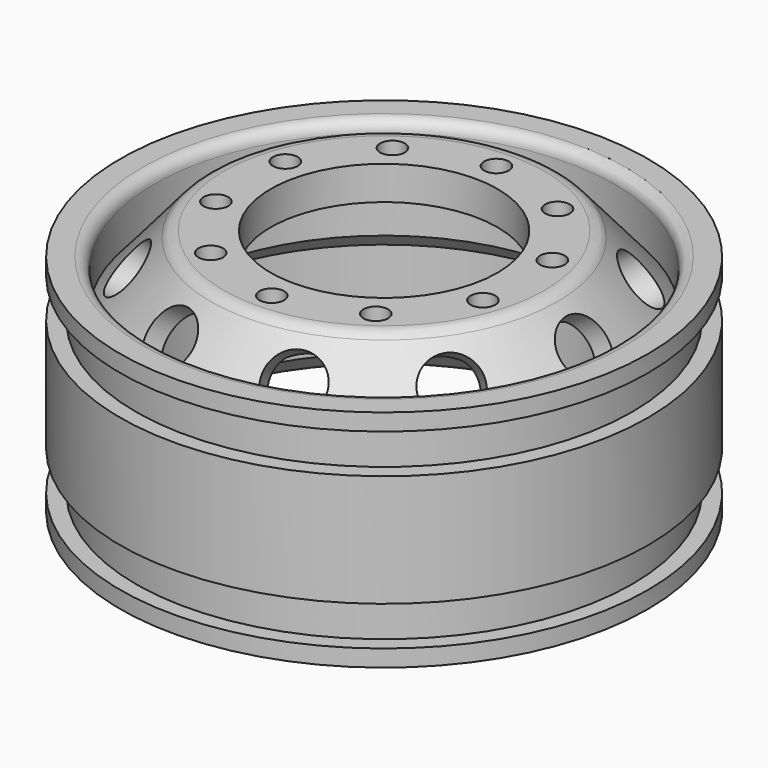
from build123d import *

# Parameters (mm, degrees)
CYLINDER072_R             = 10.1
CYLINDER072_DEPTH         = 26
CYLINDER022_R             = 1.1
CYLINDER022_DEPTH         = 10
CYLINDER021_R             = 1.1
CYLINDER021_DEPTH         = 10
FUSION008_PLACEMENT_ANGLE = 54
CYLINDER028_R             = 1.1
CYLINDER028_DEPTH         = 10
CYLINDER027_R             = 1.1
CYLINDER027_DEPTH         = 10
FUSION011_PLACEMENT_ANGLE = 162
CYLINDER026_R             = 1.1
CYLINDER026_DEPTH         = 10
CYLINDER025_R             = 1.1
CYLINDER025_DEPTH         = 10
FUSION010_PLACEMENT_ANGLE = 126
CYLINDER024_R             = 1.1
CYLINDER024_DEPTH         = 10
CYLINDER023_R             = 1.1
CYLINDER023_DEPTH         = 10
FUSION009_PLACEMENT_ANGLE = 90
CYLINDER020_R             = 1.1
CYLINDER020_DEPTH         = 10
CYLINDER019_R             = 1.1
CYLINDER019_DEPTH         = 10
FUSION007_PLACEMENT_ANGLE = 18
CYLINDER012_R             = 2.5
CYLINDER012_DEPTH         = 8
CYLINDER012_PITCH_ANGLE   = 58
CYLINDER011_R             = 2.5
CYLINDER011_DEPTH         = 8
CYLINDER011_PITCH_ANGLE   = 58
FUSION002_PLACEMENT_ANGLE = 36
CYLINDER014_R             = 2.5
CYLINDER014_DEPTH         = 8
CYLINDER014_PITCH_ANGLE   = 58
CYLINDER013_R             = 2.5
CYLINDER013_DEPTH         = 8
CYLINDER013_PITCH_ANGLE   = 58
FUSION003_PLACEMENT_ANGLE = 72
CYLINDER016_R             = 2.5
CYLINDER016_DEPTH         = 8
CYLINDER016_PITCH_ANGLE   = 58
CYLINDER015_R             = 2.5
CYLINDER015_DEPTH         = 8
CYLINDER015_PITCH_ANGLE   = 58
FUSION004_PLACEMENT_ANGLE = 108
CYLINDER018_R             = 2.5
CYLINDER018_DEPTH         = 8
CYLINDER018_PITCH_ANGLE   = 58
CYLINDER017_R             = 2.5
CYLINDER017_DEPTH         = 8
CYLINDER017_PITCH_ANGLE   = 58
FUSION005_PLACEMENT_ANGLE = 144
CYLINDER009_R             = 2.5
CYLINDER009_DEPTH         = 8
CYLINDER009_PITCH_ANGLE   = 58
CYLINDER010_R             = 2.5
CYLINDER010_DEPTH         = 8
CYLINDER010_PITCH_ANGLE   = 58
CYLINDER007_R             = 20
CYLINDER007_DEPTH         = 12
CYLINDER008_R             = 10
CYLINDER008_DEPTH         = 26
CYLINDER006_R             = 20.5
CYLINDER006_DEPTH         = 10
CYLINDER005_R             = 18.5
CYLINDER005_DEPTH         = 20
CYLINDER002_R             = 22.1
CYLINDER002_DEPTH         = 17
CYLINDER001_R             = 23.5
CYLINDER001_DEPTH         = 17
CYLINDER_R                = 23.5
CYLINDER_DEPTH            = 20
CYLINDER003_R             = 22
CYLINDER003_DEPTH         = 17
CYLINDER004_R             = 23.5
CYLINDER004_DEPTH         = 10
FILLET_R                  = 1
CHAMFER_SIZE              = 1.49
CHAMFER001_SIZE           = 2
FILLET001_R               = 1.5
FILLET002_R               = 1.5


with BuildPart() as cylinder072:
    # Cylinder072 → Cylinder072 (new body)
    with BuildSketch(Plane.XY):
        Circle(CYLINDER072_R)
    extrude(amount=CYLINDER072_DEPTH)


with BuildPart() as cylinder022:
    # Cylinder022 → Cylinder022 (new body)
    with BuildSketch(Plane(origin=(-12.5, 0, 13), x_dir=(1, 0, 0), z_dir=(0, 0, 1))):
        Circle(CYLINDER022_R)
    extrude(amount=CYLINDER022_DEPTH)


with BuildPart() as fusion008:
    # Cylinder021 → Cylinder021 (new body)
    with BuildSketch(Plane(origin=(12.5, 0, 13), x_dir=(1, 0, 0), z_dir=(0, 0, 1))):
        Circle(CYLINDER021_R)
    extrude(amount=CYLINDER021_DEPTH)

    # Fusion008: union Cylinder022
    add(cylinder022.part)


with BuildPart() as fusion008_1:
    # Fusion008 placement: moved
    add(fusion008.part.rotate(Axis((0, 0, 0), (0, 0, 1)), FUSION008_PLACEMENT_ANGLE))


with BuildPart() as cylinder028:
    # Cylinder028 → Cylinder028 (new body)
    with BuildSketch(Plane(origin=(-12.5, 0, 13), x_dir=(1, 0, 0), z_dir=(0, 0, 1))):
        Circle(CYLINDER028_R)
    extrude(amount=CYLINDER028_DEPTH)


with BuildPart() as fusion011:
    # Cylinder027 → Cylinder027 (new body)
    with BuildSketch(Plane(origin=(12.5, 0, 13), x_dir=(1, 0, 0), z_dir=(0, 0, 1))):
        Circle(CYLINDER027_R)
    extrude(amount=CYLINDER027_DEPTH)

    # Fusion011: union Cylinder028
    add(cylinder028.part)


with BuildPart() as fusion011_1:
    # Fusion011 placement: moved
    add(fusion011.part.rotate(Axis((0, 0, 0), (0, 0, 1)), FUSION011_PLACEMENT_ANGLE))


with BuildPart() as cylinder026:
    # Cylinder026 → Cylinder026 (new body)
    with BuildSketch(Plane(origin=(-12.5, 0, 13), x_dir=(1, 0, 0), z_dir=(0, 0, 1))):
        Circle(CYLINDER026_R)
    extrude(amount=CYLINDER026_DEPTH)


with BuildPart() as fusion010:
    # Cylinder025 → Cylinder025 (new body)
    with BuildSketch(Plane(origin=(12.5, 0, 13), x_dir=(1, 0, 0), z_dir=(0, 0, 1))):
        Circle(CYLINDER025_R)
    extrude(amount=CYLINDER025_DEPTH)

    # Fusion010: union Cylinder026
    add(cylinder026.part)


with BuildPart() as fusion010_1:
    # Fusion010 placement: moved
    add(fusion010.part.rotate(Axis((0, 0, 0), (0, 0, 1)), FUSION010_PLACEMENT_ANGLE))


with BuildPart() as cylinder024:
    # Cylinder024 → Cylinder024 (new body)
    with BuildSketch(Plane(origin=(-12.5, 0, 13), x_dir=(1, 0, 0), z_dir=(0, 0, 1))):
        Circle(CYLINDER024_R)
    extrude(amount=CYLINDER024_DEPTH)


with BuildPart() as fusion009:
    # Cylinder023 → Cylinder023 (new body)
    with BuildSketch(Plane(origin=(12.5, 0, 13), x_dir=(1, 0, 0), z_dir=(0, 0, 1))):
        Circle(CYLINDER023_R)
    extrude(amount=CYLINDER023_DEPTH)

    # Fusion009: union Cylinder024
    add(cylinder024.part)


with BuildPart() as fusion009_1:
    # Fusion009 placement: moved
    add(fusion009.part.rotate(Axis((0, 0, 0), (0, 0, 1)), FUSION009_PLACEMENT_ANGLE))


with BuildPart() as cylinder020:
    # Cylinder020 → Cylinder020 (new body)
    with BuildSketch(Plane(origin=(-12.5, 0, 13), x_dir=(1, 0, 0), z_dir=(0, 0, 1))):
        Circle(CYLINDER020_R)
    extrude(amount=CYLINDER020_DEPTH)


with BuildPart() as fusion012:
    # Cylinder019 → Cylinder019 (new body)
    with BuildSketch(Plane(origin=(12.5, 0, 13), x_dir=(1, 0, 0), z_dir=(0, 0, 1))):
        Circle(CYLINDER019_R)
    extrude(amount=CYLINDER019_DEPTH)

    # Fusion007: union Cylinder020
    add(cylinder020.part)


with BuildPart() as fusion012_1:
    # Fusion007 placement: moved
    add(fusion012.part.rotate(Axis((0, 0, 0), (0, 0, 1)), FUSION007_PLACEMENT_ANGLE))

    # Fusion012: union Fusion008, Fusion011, Fusion010, Fusion009
    add(fusion008_1.part)
    add(fusion011_1.part)
    add(fusion010_1.part)
    add(fusion009_1.part)


with BuildPart() as cylinder012:
    # Cylinder012 → Cylinder012 (new body)
    with BuildSketch(Plane.XY):
        Circle(CYLINDER012_R)
    extrude(amount=CYLINDER012_DEPTH)


with BuildPart() as cylinder012_1:
    # Cylinder012 pitch: moved
    add(cylinder012.part.rotate(Axis((0, 0, 0), (0, 1, 0)), CYLINDER012_PITCH_ANGLE))


with BuildPart() as cylinder012_2:
    # Cylinder012 placement: moved
    add(cylinder012_1.part.moved(Location((12, 0, 16))))


with BuildPart() as part_mirroring001:
    # Part__Mirroring001: instance of Cylinder012
    add(cylinder012_2.part.mirror(Plane(origin=(0, 0, 0), x_dir=(0, -1, 0), z_dir=(1, 0, 0))))


with BuildPart() as fusion002:
    # Cylinder011 → Cylinder011 (new body)
    with BuildSketch(Plane.XY):
        Circle(CYLINDER011_R)
    extrude(amount=CYLINDER011_DEPTH)


with BuildPart() as fusion002_1:
    # Cylinder011 pitch: moved
    add(fusion002.part.rotate(Axis((0, 0, 0), (0, 1, 0)), CYLINDER011_PITCH_ANGLE))


with BuildPart() as fusion002_2:
    # Cylinder011 placement: moved
    add(fusion002_1.part.moved(Location((12, 0, 16))))

    # Fusion002: union Part__Mirroring001
    add(part_mirroring001.part)


with BuildPart() as fusion002_3:
    # Fusion002 placement: moved
    add(fusion002_2.part.rotate(Axis((0, 0, 0), (0, 0, 1)), FUSION002_PLACEMENT_ANGLE))


with BuildPart() as cylinder014:
    # Cylinder014 → Cylinder014 (new body)
    with BuildSketch(Plane.XY):
        Circle(CYLINDER014_R)
    extrude(amount=CYLINDER014_DEPTH)


with BuildPart() as cylinder014_1:
    # Cylinder014 pitch: moved
    add(cylinder014.part.rotate(Axis((0, 0, 0), (0, 1, 0)), CYLINDER014_PITCH_ANGLE))


with BuildPart() as cylinder014_2:
    # Cylinder014 placement: moved
    add(cylinder014_1.part.moved(Location((12, 0, 16))))


with BuildPart() as part_mirroring002:
    # Part__Mirroring002: instance of Cylinder014
    add(cylinder014_2.part.mirror(Plane(origin=(0, 0, 0), x_dir=(0, -1, 0), z_dir=(1, 0, 0))))


with BuildPart() as fusion003:
    # Cylinder013 → Cylinder013 (new body)
    with BuildSketch(Plane.XY):
        Circle(CYLINDER013_R)
    extrude(amount=CYLINDER013_DEPTH)


with BuildPart() as fusion003_1:
    # Cylinder013 pitch: moved
    add(fusion003.part.rotate(Axis((0, 0, 0), (0, 1, 0)), CYLINDER013_PITCH_ANGLE))


with BuildPart() as fusion003_2:
    # Cylinder013 placement: moved
    add(fusion003_1.part.moved(Location((12, 0, 16))))

    # Fusion003: union Part__Mirroring002
    add(part_mirroring002.part)


with BuildPart() as fusion003_3:
    # Fusion003 placement: moved
    add(fusion003_2.part.rotate(Axis((0, 0, 0), (0, 0, 1)), FUSION003_PLACEMENT_ANGLE))


with BuildPart() as cylinder016:
    # Cylinder016 → Cylinder016 (new body)
    with BuildSketch(Plane.XY):
        Circle(CYLINDER016_R)
    extrude(amount=CYLINDER016_DEPTH)


with BuildPart() as cylinder016_1:
    # Cylinder016 pitch: moved
    add(cylinder016.part.rotate(Axis((0, 0, 0), (0, 1, 0)), CYLINDER016_PITCH_ANGLE))


with BuildPart() as cylinder016_2:
    # Cylinder016 placement: moved
    add(cylinder016_1.part.moved(Location((12, 0, 16))))


with BuildPart() as part_mirroring003:
    # Part__Mirroring003: instance of Cylinder016
    add(cylinder016_2.part.mirror(Plane(origin=(0, 0, 0), x_dir=(0, -1, 0), z_dir=(1, 0, 0))))


with BuildPart() as fusion004:
    # Cylinder015 → Cylinder015 (new body)
    with BuildSketch(Plane.XY):
        Circle(CYLINDER015_R)
    extrude(amount=CYLINDER015_DEPTH)


with BuildPart() as fusion004_1:
    # Cylinder015 pitch: moved
    add(fusion004.part.rotate(Axis((0, 0, 0), (0, 1, 0)), CYLINDER015_PITCH_ANGLE))


with BuildPart() as fusion004_2:
    # Cylinder015 placement: moved
    add(fusion004_1.part.moved(Location((12, 0, 16))))

    # Fusion004: union Part__Mirroring003
    add(part_mirroring003.part)


with BuildPart() as fusion004_3:
    # Fusion004 placement: moved
    add(fusion004_2.part.rotate(Axis((0, 0, 0), (0, 0, 1)), FUSION004_PLACEMENT_ANGLE))


with BuildPart() as cylinder018:
    # Cylinder018 → Cylinder018 (new body)
    with BuildSketch(Plane.XY):
        Circle(CYLINDER018_R)
    extrude(amount=CYLINDER018_DEPTH)


with BuildPart() as cylinder018_1:
    # Cylinder018 pitch: moved
    add(cylinder018.part.rotate(Axis((0, 0, 0), (0, 1, 0)), CYLINDER018_PITCH_ANGLE))


with BuildPart() as cylinder018_2:
    # Cylinder018 placement: moved
    add(cylinder018_1.part.moved(Location((12, 0, 16))))


with BuildPart() as part_mirroring004:
    # Part__Mirroring004: instance of Cylinder018
    add(cylinder018_2.part.mirror(Plane(origin=(0, 0, 0), x_dir=(0, -1, 0), z_dir=(1, 0, 0))))


with BuildPart() as fusion005:
    # Cylinder017 → Cylinder017 (new body)
    with BuildSketch(Plane.XY):
        Circle(CYLINDER017_R)
    extrude(amount=CYLINDER017_DEPTH)


with BuildPart() as fusion005_1:
    # Cylinder017 pitch: moved
    add(fusion005.part.rotate(Axis((0, 0, 0), (0, 1, 0)), CYLINDER017_PITCH_ANGLE))


with BuildPart() as fusion005_2:
    # Cylinder017 placement: moved
    add(fusion005_1.part.moved(Location((12, 0, 16))))

    # Fusion005: union Part__Mirroring004
    add(part_mirroring004.part)


with BuildPart() as fusion005_3:
    # Fusion005 placement: moved
    add(fusion005_2.part.rotate(Axis((0, 0, 0), (0, 0, 1)), FUSION005_PLACEMENT_ANGLE))


with BuildPart() as cylinder009:
    # Cylinder009 → Cylinder009 (new body)
    with BuildSketch(Plane.XY):
        Circle(CYLINDER009_R)
    extrude(amount=CYLINDER009_DEPTH)


with BuildPart() as cylinder009_1:
    # Cylinder009 pitch: moved
    add(cylinder009.part.rotate(Axis((0, 0, 0), (0, 1, 0)), CYLINDER009_PITCH_ANGLE))


with BuildPart() as cylinder009_2:
    # Cylinder009 placement: moved
    add(cylinder009_1.part.moved(Location((12, 0, 16))))


with BuildPart() as part_mirroring:
    # Part__Mirroring: instance of Cylinder009
    add(cylinder009_2.part.mirror(Plane(origin=(0, 0, 0), x_dir=(0, -1, 0), z_dir=(1, 0, 0))))


with BuildPart() as fusion006:
    # Cylinder010 → Cylinder010 (new body)
    with BuildSketch(Plane.XY):
        Circle(CYLINDER010_R)
    extrude(amount=CYLINDER010_DEPTH)


with BuildPart() as fusion006_1:
    # Cylinder010 pitch: moved
    add(fusion006.part.rotate(Axis((0, 0, 0), (0, 1, 0)), CYLINDER010_PITCH_ANGLE))


with BuildPart() as fusion006_2:
    # Cylinder010 placement: moved
    add(fusion006_1.part.moved(Location((12, 0, 16))))

    # Fusion001: union Part__Mirroring
    add(part_mirroring.part)

    # Fusion006: union Fusion002, Fusion003, Fusion004, Fusion005
    add(fusion002_3.part)
    add(fusion003_3.part)
    add(fusion004_3.part)
    add(fusion005_3.part)


with BuildPart() as fusion006_3:
    # Fusion006 placement: moved
    add(fusion006_2.part.moved(Location((0, 0, -1))))


with BuildPart() as cylinder007:
    # Cylinder007 → Cylinder007 (new body)
    with BuildSketch(Plane.XY):
        Circle(CYLINDER007_R)
    extrude(amount=CYLINDER007_DEPTH)


with BuildPart() as cone001:
    # Cone001 → Cone001 (revolve)
    with BuildSketch(Plane(origin=(0, 0, 9), x_dir=(1, 0, 0), z_dir=(0, -1, 0))):
        Polygon((0, 0), (24, 0), (15, 10), (0, 10), align=None)
    revolve(axis=Axis((0, 0, 9), (0, 0, 1)))


with BuildPart() as cylinder008:
    # Cylinder008 → Cylinder008 (new body)
    with BuildSketch(Plane.XY):
        Circle(CYLINDER008_R)
    extrude(amount=CYLINDER008_DEPTH)


with BuildPart() as cut006:
    # Cone → Cone (revolve)
    with BuildSketch(Plane(origin=(0, 0, 15), x_dir=(1, 0, 0), z_dir=(0, -1, 0))):
        Polygon((0, 0), (21, 0), (15, 7), (0, 7), align=None)
    revolve(axis=Axis((0, 0, 15), (0, 0, 1)))

    # Cut005: cut Cylinder008
    add(cylinder008.part, mode=Mode.SUBTRACT)

    # Cut006: cut Cone001
    add(cone001.part, mode=Mode.SUBTRACT)


with BuildPart() as cylinder006:
    # Cylinder006 → Cylinder006 (new body)
    with BuildSketch(Plane.XY.offset(15)):
        Circle(CYLINDER006_R)
    extrude(amount=CYLINDER006_DEPTH)


with BuildPart() as cylinder005:
    # Cylinder005 → Cylinder005 (new body)
    with BuildSketch(Plane.XY):
        Circle(CYLINDER005_R)
    extrude(amount=CYLINDER005_DEPTH)


with BuildPart() as cylinder002:
    # Cylinder002 → Cylinder002 (new body)
    with BuildSketch(Plane.XY):
        Circle(CYLINDER002_R)
    extrude(amount=CYLINDER002_DEPTH)


with BuildPart() as cut:
    # Cylinder001 → Cylinder001 (new body)
    with BuildSketch(Plane.XY):
        Circle(CYLINDER001_R)
    extrude(amount=CYLINDER001_DEPTH)

    # Cut: cut Cylinder002
    add(cylinder002.part, mode=Mode.SUBTRACT)


with BuildPart() as cut_1:
    # Cut placement: moved
    add(cut.part.moved(Location((0, 0, 1.5))))


with BuildPart() as cut001:
    # Cylinder → Cylinder (new body)
    with BuildSketch(Plane.XY):
        Circle(CYLINDER_R)
    extrude(amount=CYLINDER_DEPTH)

    # Cut001: cut Cut
    add(cut_1.part, mode=Mode.SUBTRACT)


with BuildPart() as cylinder003:
    # Cylinder003 → Cylinder003 (new body)
    with BuildSketch(Plane.XY):
        Circle(CYLINDER003_R)
    extrude(amount=CYLINDER003_DEPTH)


with BuildPart() as rim_middle:
    # Cylinder004 → Cylinder004 (new body)
    with BuildSketch(Plane.XY.offset(0.5)):
        Circle(CYLINDER004_R)
    extrude(amount=CYLINDER004_DEPTH)

    # Cut002: cut Cylinder003
    add(cylinder003.part, mode=Mode.SUBTRACT)


with BuildPart() as rim_middle_1:
    # Cut002 placement: moved
    add(rim_middle.part.moved(Location((0, 0, 4.5))))

    # Fusion: union Cut001
    add(cut001.part)

    # Cut003: cut Cylinder005
    add(cylinder005.part, mode=Mode.SUBTRACT)

    # Cut004: cut Cylinder006
    add(cylinder006.part, mode=Mode.SUBTRACT)

    # Fillet
    fillet_edges = [rim_middle_1.edges().sort_by_distance(p)[0] for p in [
        (-14.495689, 14.495689, 20),
    ]]
    fillet(fillet_edges, radius=FILLET_R)

    # Fusion013: union Cut006
    add(cut006.part)

    # Cut007: cut Cylinder007
    add(cylinder007.part, mode=Mode.SUBTRACT)

    # Chamfer
    chamfer_edges = [rim_middle_1.edges().sort_by_distance(p)[0] for p in [
        (-20, 0, 12),
    ]]
    chamfer(chamfer_edges, length=CHAMFER_SIZE)

    # Chamfer001
    chamfer001_edges = [rim_middle_1.edges().sort_by_distance(p)[0] for p in [
        (-20, 0, 0),
    ]]
    chamfer(chamfer001_edges, length=CHAMFER001_SIZE)

    # Cut008: cut Fusion006
    add(fusion006_3.part, mode=Mode.SUBTRACT)

    # Cut009: cut Fusion012
    add(fusion012_1.part, mode=Mode.SUBTRACT)

    # Fillet001
    fillet001_edges = [rim_middle_1.edges().sort_by_distance(p)[0] for p in [
        (-15, 0, 22),
    ]]
    fillet(fillet001_edges, radius=FILLET001_R)

    # Fillet002
    fillet002_edges = [rim_middle_1.edges().sort_by_distance(p)[0] for p in [
        (-22, 0, 0),
    ]]
    fillet(fillet002_edges, radius=FILLET002_R)

    # Cut021: cut Cylinder072
    add(cylinder072.part, mode=Mode.SUBTRACT)


solid = rim_middle_1.part
